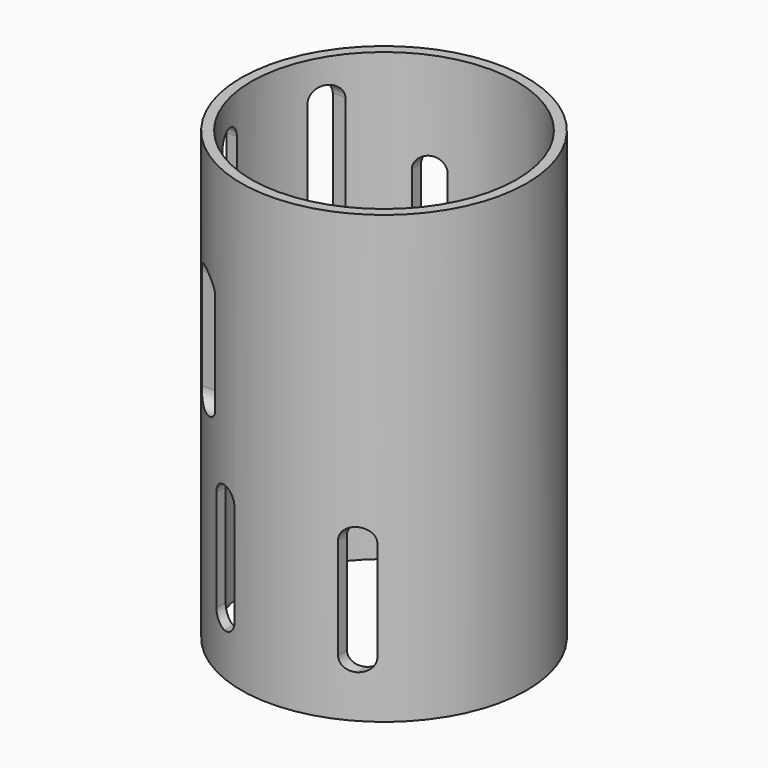
from build123d import *

# Parameters (mm, degrees)
F0_R     = 40.64
F0_R_2   = 37.765528
F1_DEPTH = 127
F3_DEPTH = 40.641
F4_DEPTH = 76.2
F5_DEPTH = 50.8
F6_DEPTH = 50.8
F8_DEPTH = 50.8
F9_DEPTH = 50.8


with BuildPart() as f1:
    # F0 (on Top) → F1 (new body)
    with BuildSketch(Plane.XY):
        Circle(F0_R)
        Circle(F0_R_2, mode=Mode.SUBTRACT)
    extrude(amount=F1_DEPTH)

    # F2 (on Front) → F3 (cut, through all)
    with BuildSketch(Plane.XZ):
        with BuildLine():
            ThreePointArc((20.893278, 93.254258), (17.083276, 97.064259), (13.273275, 93.254258))
            Line((13.273275, 93.254258), (13.273275, 64.494903))
            ThreePointArc((13.273275, 64.494903), (17.083276, 60.684902), (20.893278, 64.494903))
            Line((20.893278, 64.494903), (20.893278, 93.254258))
        make_face()
    extrude(amount=-F3_DEPTH, mode=Mode.SUBTRACT)

    # F2 (on Front) → F4 (cut)
    with BuildSketch(Plane.XZ):
        with BuildLine():
            ThreePointArc((-10.815753, 97.929251), (-14.625754, 101.739253), (-18.435756, 97.929251))
            Line((-18.435756, 97.929251), (-18.435756, 69.169897))
            ThreePointArc((-18.435756, 69.169897), (-14.625754, 65.359895), (-10.815753, 69.169897))
            Line((-10.815753, 69.169897), (-10.815753, 97.929251))
        make_face()
    extrude(amount=-F4_DEPTH, mode=Mode.SUBTRACT)

    # F2 (on Front) → F5 (cut)
    with BuildSketch(Plane.XZ):
        with BuildLine():
            ThreePointArc((-18.927373, 16.02255), (-17.811449, 13.328472), (-15.117371, 12.212548))
            ThreePointArc((-15.117371, 12.212548), (-12.423293, 13.328472), (-11.307369, 16.02255))
            Line((-11.307369, 16.02255), (-11.307369, 44.781905))
            ThreePointArc((-11.307369, 44.781905), (-15.117371, 48.591906), (-18.927373, 44.781905))
            Line((-18.927373, 44.781905), (-18.927373, 16.02255))
        make_face()
    extrude(amount=F5_DEPTH, mode=Mode.SUBTRACT)

    # F2 (on Front) → F6 (cut)
    with BuildSketch(Plane.XZ):
        with BuildLine():
            ThreePointArc((24.211667, 44.781905), (20.401666, 48.591906), (16.591664, 44.781905))
            Line((16.591664, 44.781905), (16.591664, 16.02255))
            ThreePointArc((16.591664, 16.02255), (17.707588, 13.328472), (20.401666, 12.212548))
            ThreePointArc((20.401666, 12.212548), (23.095744, 13.328472), (24.211667, 16.02255))
            Line((24.211667, 16.02255), (24.211667, 44.781905))
        make_face()
    extrude(amount=F6_DEPTH, mode=Mode.SUBTRACT)

    # F7 (on Right) → F8 (cut)
    with BuildSketch(Plane.YZ):
        with BuildLine():
            ThreePointArc((-5.653547, 115.610962), (-9.463548, 119.420963), (-13.27355, 115.610962))
            Line((-13.27355, 115.610962), (-13.27355, 86.851607))
            ThreePointArc((-13.27355, 86.851607), (-9.463548, 83.041606), (-5.653547, 86.851607))
            Line((-5.653547, 86.851607), (-5.653547, 115.610962))
        make_face()
    extrude(amount=-F8_DEPTH, mode=Mode.SUBTRACT)

    # F7 (on Right) → F9 (cut)
    with BuildSketch(Plane.YZ):
        with BuildLine():
            ThreePointArc((-5.653547, 115.610962), (-9.463548, 119.420963), (-13.27355, 115.610962))
            Line((-13.27355, 115.610962), (-13.27355, 86.851607))
            ThreePointArc((-13.27355, 86.851607), (-9.463548, 83.041606), (-5.653547, 86.851607))
            Line((-5.653547, 86.851607), (-5.653547, 115.610962))
        make_face()
        with BuildLine():
            ThreePointArc((-28.021937, 93.734198), (-31.831939, 97.5442), (-35.64194, 93.734198))
            Line((-35.64194, 93.734198), (-35.64194, 64.974844))
            ThreePointArc((-35.64194, 64.974844), (-31.831939, 61.164842), (-28.021937, 64.974844))
            Line((-28.021937, 64.974844), (-28.021937, 93.734198))
        make_face()
        with BuildLine():
            ThreePointArc((23.351614, 116.102581), (19.541613, 119.912582), (15.731611, 116.102581))
            Line((15.731611, 116.102581), (15.731611, 87.343226))
            ThreePointArc((15.731611, 87.343226), (19.541613, 83.533225), (23.351614, 87.343226))
            Line((23.351614, 87.343226), (23.351614, 116.102581))
        make_face()
    extrude(amount=-F9_DEPTH, mode=Mode.SUBTRACT)


solid = f1.part
